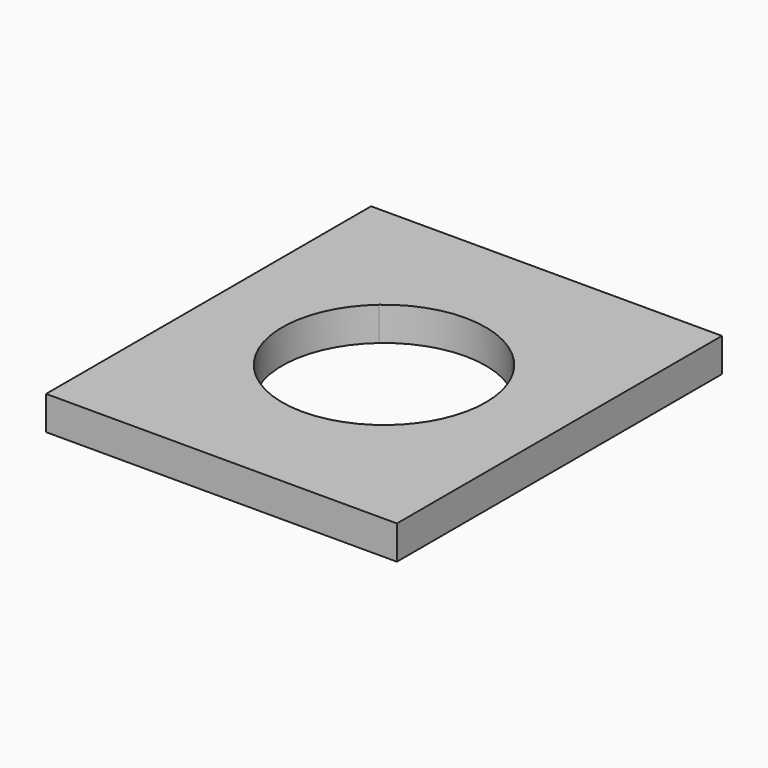
from build123d import *

# Parameters (mm, degrees)
F1_DEPTH = 10


with BuildPart() as f1:
    # F0 (on Top) → F1 (new body)
    with BuildSketch(Plane.XY):
        with BuildLine():
            Line((0, 120.514169), (0, 0))
            Line((0, 0), (32.310156, 37.41344))
            ThreePointArc((32.310156, 37.41344), (21.854849, 60.257085), (32.310156, 83.10073))
            Line((32.310156, 83.10073), (0, 120.514169))
        make_face()
        with BuildLine():
            Line((104.075745, 120.514169), (0, 120.514169))
            Line((0, 120.514169), (32.310156, 83.10073))
            ThreePointArc((32.310156, 83.10073), (52.037872, 90.440108), (71.765589, 83.10073))
            Line((71.765589, 83.10073), (104.075745, 120.514169))
        make_face()
        with BuildLine():
            Line((71.765589, 37.41344), (104.075745, 0))
            Line((104.075745, 0), (104.075745, 120.514169))
            Line((104.075745, 120.514169), (71.765589, 83.10073))
            ThreePointArc((71.765589, 83.10073), (79.482881, 72.81839), (82.220896, 60.257085))
            ThreePointArc((82.220896, 60.257085), (79.482881, 47.695779), (71.765589, 37.41344))
        make_face()
        with BuildLine():
            Line((32.310156, 37.41344), (0, 0))
            Line((0, 0), (104.075745, 0))
            Line((104.075745, 0), (71.765589, 37.41344))
            ThreePointArc((71.765589, 37.41344), (52.037872, 30.074061), (32.310156, 37.41344))
        make_face()
    extrude(amount=F1_DEPTH)


solid = f1.part
